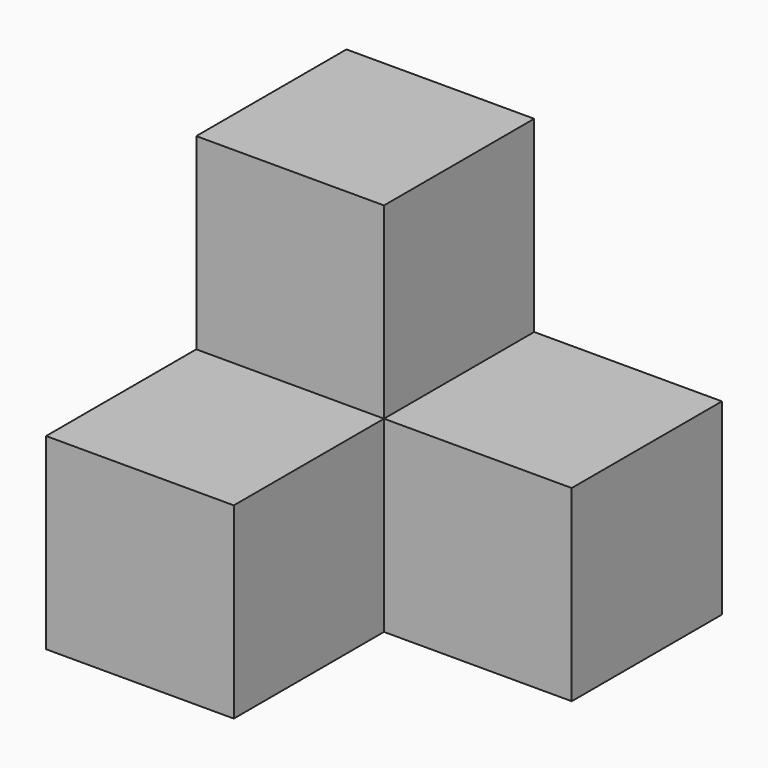
from build123d import *

# Parameters (mm, degrees)
F1_DEPTH = 20
F2_W     = 20
F2_H     = 20
F3_DEPTH = 20


with BuildPart() as f1:
    # F0 (on Top) → F1 (new body)
    with BuildSketch(Plane.XY):
        Polygon((40, 0), (0, 0), (0, -20), (0, -40), (20, -40), (20, -20), (40, -20), align=None)
    extrude(amount=F1_DEPTH)

    # F2 (on face) → F3 (join)
    with BuildSketch(Plane.XY.offset(20)):
        with Locations((10, -10)):
            Rectangle(F2_W, F2_H)
    extrude(amount=F3_DEPTH)


solid = f1.part
